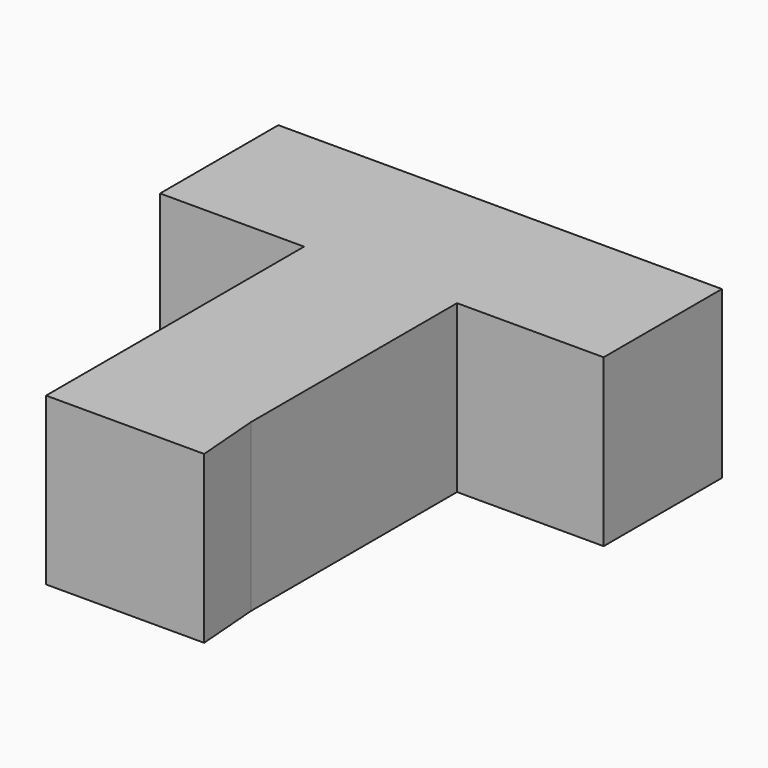
from build123d import *

# Parameters (mm, degrees)
F1_DEPTH = 25.4


with BuildPart() as f1:
    # F0 (on Top) → F1 (new body)
    with BuildSketch(Plane.XY):
        Polygon((33.58084, 58.888137), (-34.164853, 58.888137), (-34.164853, 36.306243), (-12.166971, 36.306243), (11.193614, 36.306243), (33.58084, 36.306243), align=None)
        Polygon((11.193614, 36.306243), (-12.166971, 36.306243), (-12.166971, -12.945658), (11.972299, -12.945658), (11.193614, -3.017409), align=None)
    extrude(amount=F1_DEPTH)


solid = f1.part
